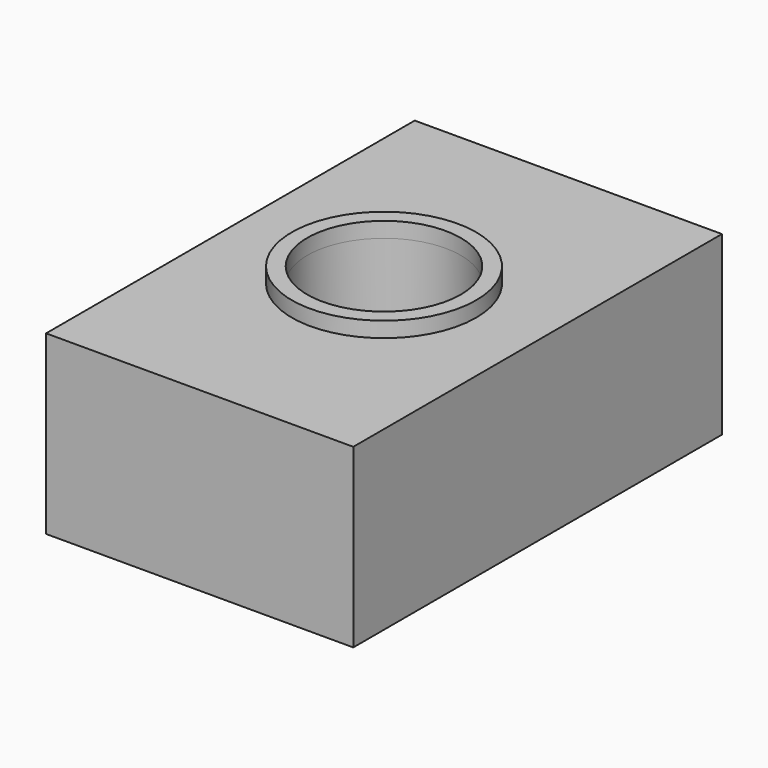
from build123d import *

# Parameters (mm, degrees)
F0_W     = 80
F0_H     = 120
F1_DEPTH = 46
F2_R     = 20
F3_DEPTH = 65
F2_R_2   = 24
F4_DEPTH = 4


with BuildPart() as f1:
    # F0 (on Top) → F1 (new body)
    with BuildSketch(Plane.XY):
        Rectangle(F0_W, F0_H)
        Rectangle(F0_W, F0_H)
    extrude(amount=F1_DEPTH)

    # F2 (on face) → F3 (cut)
    with BuildSketch(Plane.XY.offset(46)):
        Circle(F2_R)
    extrude(amount=-F3_DEPTH, mode=Mode.SUBTRACT)

    # F2 (on face) → F4 (join)
    with BuildSketch(Plane.XY.offset(46)):
        Circle(F2_R_2)
        Circle(F2_R, mode=Mode.SUBTRACT)
    extrude(amount=F4_DEPTH)


solid = f1.part
